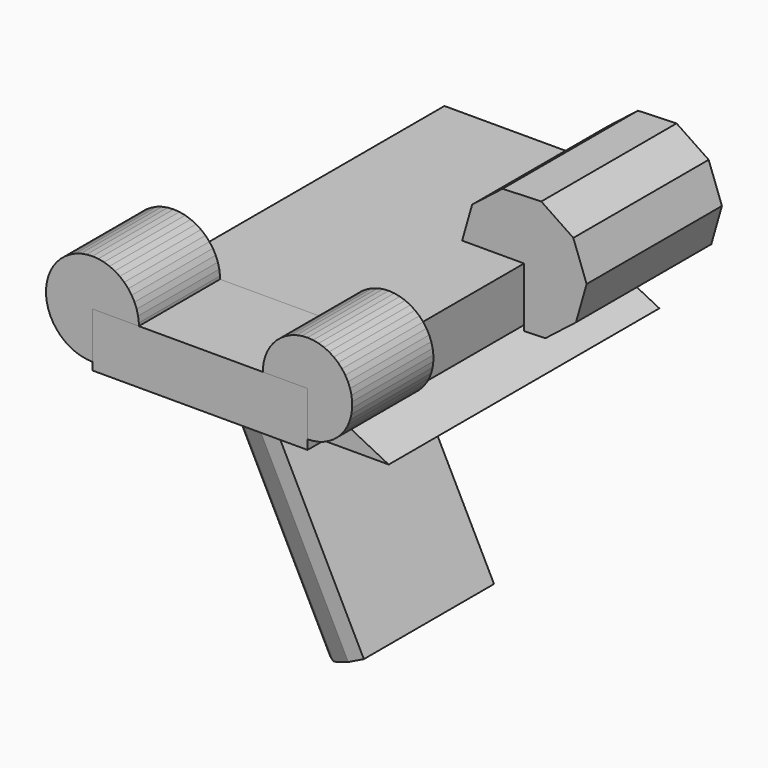
from build123d import *

# Parameters (mm, degrees)
F0_W      = 161.3730043173
F0_H      = 81.2815725803
F2_DEPTH  = 254
F4_DEPTH  = 254.001
F6_DEPTH  = 254.001
F9_DEPTH  = 76.2
F11_DEPTH = 76.2
F13_DEPTH = 127
F15_DEPTH = 200.00349


with BuildPart() as f2:
    # F0 (on Front) → F2 (new body)
    with BuildSketch(Plane.XZ):
        with Locations((-80.6865021586, -40.6407862902)):
            Rectangle(F0_W, F0_H)
    extrude(amount=F2_DEPTH)

    # F3 (on face) → F4 (cut, through all)
    with BuildSketch(Plane.XZ.offset(254)):
        Polygon((-161.3730043173, -40.6407862902), (-161.3730043173, -81.2815725803), (-80.6865021586, -40.6407862902), align=None)
    extrude(amount=-F4_DEPTH, mode=Mode.SUBTRACT)

    # F5 (on face) → F6 (cut, through all)
    with BuildSketch(Plane.XZ.offset(254)):
        Polygon((0, -40.6407862902), (-80.6865021586, -40.6407862902), (0, -81.2815725803), align=None)
    extrude(amount=-F6_DEPTH, mode=Mode.SUBTRACT)

    # F12 (on face) → F13 (join)
    with BuildSketch(Plane.XZ):
        Polygon((38.9730583825, -26.2516677193), (46.9602096877, 1.6697436384), (37.010157011, 28.9533696787), (12.9234822851, 45.1777925906), (-16.0995234208, 44.1458342696), (-38.9730583825, 26.2516677193), (-46.4825656707, 0), (0, 0), (0, -44.7182779829), (16.0995234208, -44.1458342696), align=None)
    extrude(amount=F13_DEPTH)


with BuildPart() as f9:
    # F8 (on face) → F9 (new body)
    with BuildSketch(Plane.XZ.offset(254)):
        Polygon((-33.5141047835, 2.1085287508), (-33.5141047835, 0), (0, 0), (0, -33.580367969), (4.2087361018, -33.3155767376), (8.3510979212, -32.5253789593), (12.3617579376, -31.2222365251), (16.1774656468, -29.4267007696), (19.7380450587, -27.1670883643), (22.9873437092, -24.4790347467), (25.8741182174, -21.404932128), (28.3528424249, -17.9932609431), (30.3844253701, -14.2978252843), (31.9368277765, -10.3769043798), (32.9855673307, -6.2923334943), (33.5141047835, -2.1085287508), (33.5141047835, 2.1085287508), (32.9855673307, 6.2923334943), (31.9368277765, 10.3769043798), (30.3844253701, 14.2978252843), (28.3528424249, 17.9932609431), (25.8741182174, 21.404932128), (22.9873437092, 24.4790347467), (19.7380450587, 27.1670883643), (16.1774656468, 29.4267007696), (12.3617579376, 31.2222365251), (8.3510979212, 32.5253789593), (4.2087361018, 33.3155767376), (0, 33.580367969), (-4.2087361018, 33.3155767376), (-8.3510979212, 32.5253789593), (-12.3617579376, 31.2222365251), (-16.1774656468, 29.4267007696), (-19.7380450587, 27.1670883643), (-22.9873437092, 24.4790347467), (-25.8741182174, 21.404932128), (-28.3528424249, 17.9932609431), (-30.3844253701, 14.2978252843), (-31.9368277765, 10.3769043798), (-32.9855673307, 6.2923334943), align=None)
    extrude(amount=F9_DEPTH)


with BuildPart() as f11:
    # F7 (on face) → F11 (new body)
    with BuildSketch(Plane.XZ.offset(254)):
        Polygon((-161.3730043173, 0), (-161.3730043173, -40.6407862902), (-80.6865021586, -40.6407862902), (0, -40.6407862902), (0, 0), align=None)
    extrude(amount=F11_DEPTH)


with BuildPart() as f11b:
    # F10 (on face) → F11, piece 2 (new body)
    with BuildSketch(Plane.XZ.offset(254)):
        Polygon((-126.6610324383, 0), (-126.6610324383, 2.1905043593), (-127.2101184272, 6.5369675155), (-128.2996309911, 10.780338789), (-129.9123878659, 14.8536976799), (-132.0229549123, 18.6928048853), (-134.5980472273, 22.2371153911), (-137.5970540666, 25.4307333034), (-140.9726793009, 28.2232933598), (-144.6716873038, 30.5707552202), (-148.6357425094, 32.4360980088), (-152.8023293991, 33.7899041553), (-157.1057384086, 34.6108233282), (-161.4781022072, 34.8859091417), (-165.8504660057, 34.6108233282), (-170.1538750153, 33.7899041553), (-174.320461905, 32.4360980088), (-178.2845171106, 30.5707552202), (-181.9835251135, 28.2232933598), (-185.3591503478, 25.4307333034), (-188.3581571871, 22.2371153911), (-190.933249502, 18.6928048853), (-193.0438165484, 14.8536976799), (-194.6565734232, 10.780338789), (-195.7460859871, 6.5369675155), (-196.2951719761, 2.1905043593), (-196.2951719761, -2.1905043593), (-195.7460859871, -6.5369675155), (-194.6565734232, -10.780338789), (-193.0438165484, -14.8536976799), (-190.933249502, -18.6928048853), (-188.3581571871, -22.2371153911), (-185.3591503478, -25.4307333034), (-181.9835251135, -28.2232933598), (-178.2845171106, -30.5707552202), (-174.320461905, -32.4360980088), (-170.1538750153, -33.7899041553), (-165.8504660057, -34.6108233282), (-161.4781022072, -34.8859091417), (-161.3730043173, -34.8792969429), (-161.3730043173, 0), align=None)
    extrude(amount=F11_DEPTH)


with BuildPart() as f15:
    # F14 (on face) → F15 (new body)
    with BuildSketch(Plane(origin=(0, 0, 0), x_dir=(0.8931059627, 0, 0.4498463509), z_dir=(-0.4498463509, 0, 0.8931059627))):
        Polygon((-214.1681429585, -179.1259709386), (-194.3208757202, -187.4334749195), (-180.6874111927, -188.0794664983), (-180.6874111927, -65.9205335017), (-188.5456109341, -65.548190078), (-209.0894603395, -71.9418502842), (-226.2076034482, -84.9763359179), (-237.8353395644, -103.0794956431), (-242.5701921053, -124.0678212228), (-239.8410679756, -145.4098108374), (-229.9771398229, -164.5313055651), align=None)
    extrude(amount=-F15_DEPTH)


solid = Compound([f2.part, f9.part, f11.part, f11b.part, f15.part])
